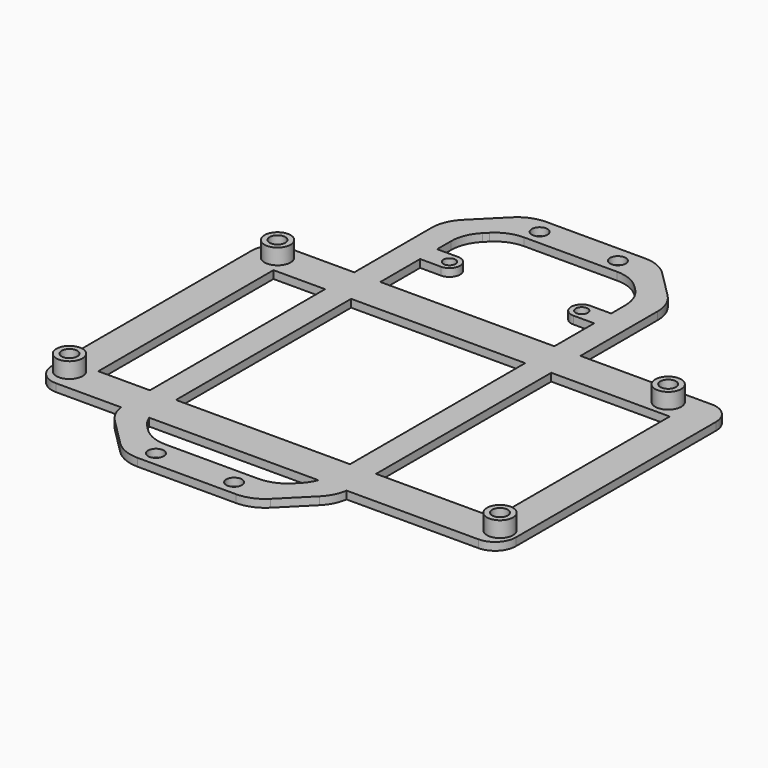
from build123d import *

# Parameters (mm, degrees)
SKETCH_W        = 89
SKETCH_H        = 56
SKETCH_W_2      = 76
SKETCH_H_2      = 42
PAD_DEPTH       = 1.5
SKETCH001_R     = 2.5
PAD001_DEPTH    = 3
SKETCH002_R     = 1.5
POCKET_DEPTH    = 4.501
FILLET_R        = 4
PAD002_DEPTH    = 1.5
SKETCH004_R     = 1.5
SKETCH004_R_2   = 1.15
POCKET001_DEPTH = 1.501
FILLET001_R     = 7


with BuildPart() as arduinosupport:
    # Sketch → Pad (new body)
    with BuildSketch(Plane.XY):
        with Locations((7.033953, -27.68594)):
            Rectangle(SKETCH_W, SKETCH_H)
        with Locations((7.033953, -27.68594)):
            Rectangle(SKETCH_W_2, SKETCH_H_2, mode=Mode.SUBTRACT)
    extrude(amount=PAD_DEPTH)

    # Sketch001 (on Face10 of Pad) → Pad001 (join)
    with BuildSketch(Plane.XY.offset(1.5)):
        with Locations((-33.016678, -3.147287)):
            Circle(SKETCH001_R)
        with Locations((-34.322529, -51.407287)):
            Circle(SKETCH001_R)
        with Locations((41.913322, -3.147287)):
            Circle(SKETCH001_R)
        with Locations((48.263322, -51.407287)):
            Circle(SKETCH001_R)
    extrude(amount=PAD001_DEPTH)

    # Sketch002 (on Face15 of Pad001) → Pocket (cut, through all)
    with BuildSketch(Plane.XY.offset(4.5)):
        with Locations((-33.016678, -3.147287)):
            Circle(SKETCH002_R)
        with Locations((-34.322529, -51.407287)):
            Circle(SKETCH002_R)
        with Locations((48.263322, -51.407287)):
            Circle(SKETCH002_R)
        with Locations((41.913322, -3.147287)):
            Circle(SKETCH002_R)
    extrude(amount=-POCKET_DEPTH, mode=Mode.SUBTRACT)

    # Fillet
    fillet_edges = [arduinosupport.edges().sort_by_distance(p)[0] for p in [
        (51.533953, 0.31406, 0.75),
        (51.533953, -55.68594, 0.75),
        (-37.466047, -55.68594, 0.75),
        (-37.466047, 0.31406, 0.75),
    ]]
    fillet(fillet_edges, radius=FILLET_R)


with BuildPart() as obj1:
    # Sketch003 → Pad002 (new body)
    with BuildSketch(Plane.XY):
        Polygon((12.977516, -66.941809), (-11.737781, -66.941809), (-21.072386, -57.607204), (-21.072386, 21.723586), (-11.737781, 31.058191), (12.977516, 31.058191), (22.312121, 21.723586), (22.312121, -57.607204), align=None)
        with BuildLine():
            Line((17.312121, 20.201021), (17.312121, 13.932858))
            Line((17.312121, 13.932858), (13.312121, 13.932858))
            ThreePointArc((13.312121, 13.932858), (11.272121, 11.892858), (13.312121, 9.852858))
            Line((17.312121, 9.852858), (13.312121, 9.852858))
            Line((17.312121, 9.852858), (17.312121, -56.084639))
            Line((17.312121, -56.084639), (12.454951, -60.941809))
            Line((12.454951, -60.941809), (-11.215216, -60.941809))
            Line((-11.215216, -60.941809), (-16.072386, -56.084639))
            Line((-16.072386, -56.084639), (-16.072386, 9.852858))
            Line((-12.072386, 9.852858), (-16.072386, 9.852858))
            ThreePointArc((-12.072386, 9.852858), (-10.032386, 11.892858), (-12.072386, 13.932858))
            Line((-16.072386, 13.932858), (-12.072386, 13.932858))
            Line((-16.072386, 20.201021), (-16.072386, 13.932858))
            Line((-11.215216, 25.058191), (-16.072386, 20.201021))
            Line((-11.215216, 25.058191), (12.454951, 25.058191))
            Line((12.454951, 25.058191), (17.312121, 20.201021))
        make_face(mode=Mode.SUBTRACT)
    extrude(amount=PAD002_DEPTH)

    # Sketch004 (on Face26 of Pad002) → Pocket001 (cut, through all)
    with BuildSketch(Plane.XY.offset(1.5)):
        with Locations((-7.589837, 27.917404)):
            Circle(SKETCH004_R)
        with Locations((7.410163, 27.917404)):
            Circle(SKETCH004_R)
        with Locations((-7.589837, -64.082596)):
            Circle(SKETCH004_R)
        with Locations((7.410163, -64.082596)):
            Circle(SKETCH004_R)
        with Locations((13.312121, 11.892858)):
            Circle(SKETCH004_R_2)
        with Locations((-12.072386, 11.892858)):
            Circle(SKETCH004_R_2)
    extrude(amount=-POCKET001_DEPTH, mode=Mode.SUBTRACT)

    # Fillet001
    fillet001_edges = [obj1.edges().sort_by_distance(p)[0] for p in [
        (12.977516, -66.941809, 0.75),
        (22.312121, -57.607204, 0.75),
        (-11.737781, -66.941809, 0.75),
        (-21.072386, -57.607204, 0.75),
        (-16.072386, -56.084639, 0.75),
        (17.312121, -56.084639, 0.75),
        (12.454951, -60.941809, 0.75),
        (-11.215216, -60.941809, 0.75),
        (-21.072386, 21.723586, 0.75),
        (-11.737781, 31.058191, 0.75),
        (22.312121, 21.723586, 0.75),
        (12.977516, 31.058191, 0.75),
        (-16.072386, 20.201021, 0.75),
        (-11.215216, 25.058191, 0.75),
        (12.454951, 25.058191, 0.75),
        (17.312121, 20.201021, 0.75),
    ]]
    fillet(fillet001_edges, radius=FILLET001_R)

    # Boolean: union ArduinoSupport
    add(arduinosupport.part)


solid = obj1.part
